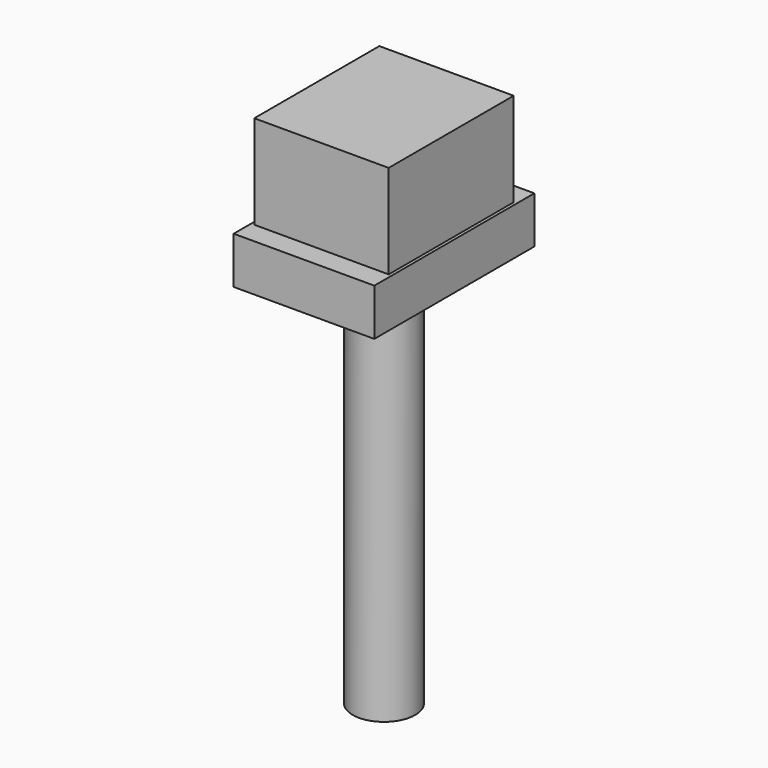
from build123d import *

# Parameters (mm, degrees)
SKETCH038_W  = 4.3
SKETCH038_H  = 5
PAD018_DEPTH = 4.5
SKETCH039_W  = 4.5
SKETCH039_H  = 6.4
PAD019_DEPTH = 1.5
SKETCH040_R  = 1
PAD020_DEPTH = 12.3


with BuildPart() as part:
    # Sketch038 → Pad018 (new body)
    with BuildSketch(Plane.XY):
        with Locations((23.95, 1.9814)):
            Rectangle(SKETCH038_W, SKETCH038_H)
    extrude(amount=PAD018_DEPTH)

    # Sketch039 → Pad019 (join)
    with BuildSketch(Plane.XY):
        with Locations((23.95, 1.9814)):
            Rectangle(SKETCH039_W, SKETCH039_H)
    extrude(amount=PAD019_DEPTH)

    # Sketch040 → Pad020 (join)
    with BuildSketch(Plane.XY):
        with Locations((23.95, 1.98)):
            Circle(SKETCH040_R)
    extrude(amount=-PAD020_DEPTH)


with BuildPart() as part_1:
    # Body005 placement: moved
    add(part.part.moved(Location((0, 0, 6))))


solid = part_1.part
